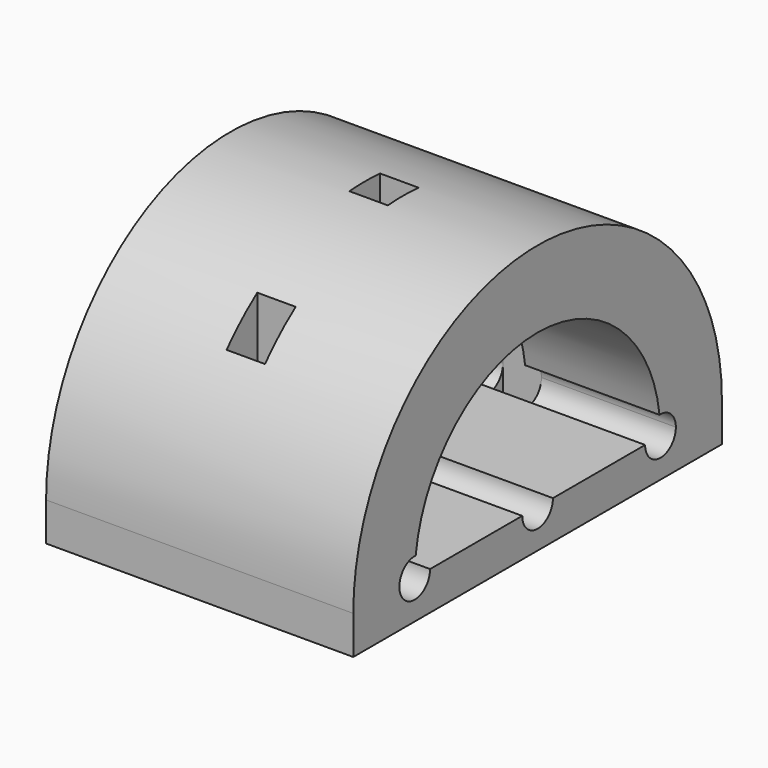
from build123d import *

# Parameters (mm, degrees)
F0_W     = 120
F0_H     = 10
F1_DEPTH = 80
F3_DEPTH = 80.001
F4_DEPTH = 25
F5_W     = 10
F5_H     = 10
F6_DEPTH = 70.001


with BuildPart() as f1:
    # F0 (on Right) → F1 (new body)
    with BuildSketch(Plane.YZ):
        Rectangle(F0_W, F0_H)
        with BuildLine():
            ThreePointArc((60, 5), (0, 65), (-60, 5))
            Line((-60, 5), (60, 5))
        make_face()
    extrude(amount=F1_DEPTH)

    # F2 (on face) → F3 (cut, through all)
    with BuildSketch(Plane.YZ.offset(80)):
        with BuildLine():
            Line((-5, 5), (5, 5))
            ThreePointArc((5, 5), (0, 10), (-5, 5))
        make_face()
        with BuildLine():
            ThreePointArc((-5, 5), (0, 0), (5, 5))
            Line((5, 5), (-5, 5))
        make_face()
        with BuildLine():
            ThreePointArc((-5, 5), (0, 10), (5, 5))
            Line((5, 5), (35, 5))
            ThreePointArc((35, 5), (36.3556550657, 8.4232659844), (39.6875, 9.9902248196))
            ThreePointArc((39.6875, 9.9902248196), (0, 45), (-39.6875, 9.9902248196))
            ThreePointArc((-39.6875, 9.9902248196), (-36.3556550657, 8.4232659844), (-35, 5))
            Line((-35, 5), (-5, 5))
        make_face()
        with BuildLine():
            Line((40, 5), (35, 5))
            ThreePointArc((35, 5), (40, 0), (45, 5))
            ThreePointArc((45, 5), (43.4232659844, 8.6443449343), (39.6875, 9.9902248196))
            ThreePointArc((39.6875, 9.9902248196), (39.9217985567, 7.5), (40, 5))
        make_face()
        with BuildLine():
            ThreePointArc((39.6875, 9.9902248196), (36.3556550657, 8.4232659844), (35, 5))
            Line((35, 5), (40, 5))
            ThreePointArc((40, 5), (39.9217985567, 7.5), (39.6875, 9.9902248196))
        make_face()
        with BuildLine():
            Line((-40, 5), (-35, 5))
            ThreePointArc((-35, 5), (-36.3556550657, 8.4232659844), (-39.6875, 9.9902248196))
            ThreePointArc((-39.6875, 9.9902248196), (-39.9217985567, 7.5), (-40, 5))
        make_face()
        with BuildLine():
            ThreePointArc((-39.6875, 9.9902248196), (-43.6443449343, 1.5767340156), (-35, 5))
            Line((-35, 5), (-40, 5))
            ThreePointArc((-40, 5), (-39.9217985567, 7.5), (-39.6875, 9.9902248196))
        make_face()
    extrude(amount=-F3_DEPTH, mode=Mode.SUBTRACT)

    # F2 (on face) → F4 (cut)
    with BuildSketch(Plane.YZ.offset(80)):
        with BuildLine():
            Line((-5, 5), (5, 5))
            ThreePointArc((5, 5), (0, 10), (-5, 5))
        make_face()
        with BuildLine():
            ThreePointArc((-5, 5), (0, 0), (5, 5))
            Line((5, 5), (-5, 5))
        make_face()
        with BuildLine():
            ThreePointArc((-5, 5), (0, 10), (5, 5))
            Line((5, 5), (35, 5))
            ThreePointArc((35, 5), (36.3556550657, 8.4232659844), (39.6875, 9.9902248196))
            ThreePointArc((39.6875, 9.9902248196), (0, 45), (-39.6875, 9.9902248196))
            ThreePointArc((-39.6875, 9.9902248196), (-36.3556550657, 8.4232659844), (-35, 5))
            Line((-35, 5), (-5, 5))
        make_face()
        with BuildLine():
            Line((40, 5), (35, 5))
            ThreePointArc((35, 5), (40, 0), (45, 5))
            ThreePointArc((45, 5), (43.4232659844, 8.6443449343), (39.6875, 9.9902248196))
            ThreePointArc((39.6875, 9.9902248196), (39.9217985567, 7.5), (40, 5))
        make_face()
        with BuildLine():
            ThreePointArc((39.6875, 9.9902248196), (36.3556550657, 8.4232659844), (35, 5))
            Line((35, 5), (40, 5))
            ThreePointArc((40, 5), (39.9217985567, 7.5), (39.6875, 9.9902248196))
        make_face()
        with BuildLine():
            Line((-40, 5), (-35, 5))
            ThreePointArc((-35, 5), (-36.3556550657, 8.4232659844), (-39.6875, 9.9902248196))
            ThreePointArc((-39.6875, 9.9902248196), (-39.9217985567, 7.5), (-40, 5))
        make_face()
        with BuildLine():
            ThreePointArc((-39.6875, 9.9902248196), (-43.6443449343, 1.5767340156), (-35, 5))
            Line((-35, 5), (-40, 5))
            ThreePointArc((-40, 5), (-39.9217985567, 7.5), (-39.6875, 9.9902248196))
        make_face()
    extrude(amount=-F4_DEPTH, mode=Mode.SUBTRACT)

    # F5 (on face) → F6 (cut, through all)
    with BuildSketch(Plane(origin=(0, 0, -5), x_dir=(1, 0, 0), z_dir=(0, 0, -1))):
        with Locations((40, 40)):
            Rectangle(F5_W, F5_H)
        with Locations((40, 0)):
            Rectangle(F5_W, F5_H)
        with Locations((40, -40)):
            Rectangle(F5_W, F5_H)
    extrude(amount=-F6_DEPTH, mode=Mode.SUBTRACT)


solid = f1.part
